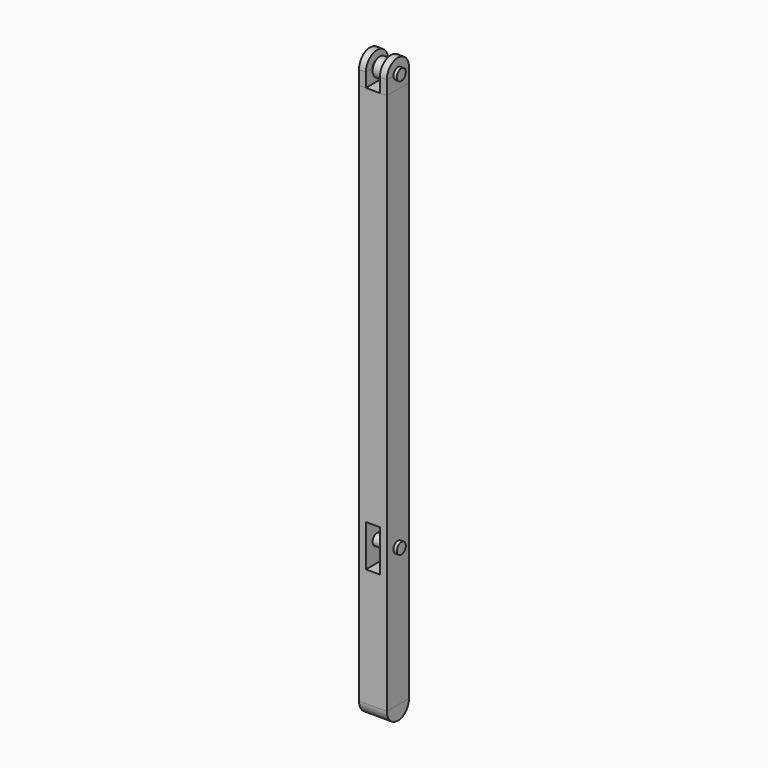
from build123d import *

# Parameters (mm, degrees)
CYLINDER001_W     = 0.1
CYLINDER001_H     = 0.2
CYLINDER001_ANGLE = 180
CYLINDER_R        = 0.04
CYLINDER_DEPTH    = 0.25
CYLINDER002_W     = 0.1
CYLINDER002_H     = 0.05
CYLINDER002_ANGLE = 180
BOX004_W          = 0.1
BOX004_H          = 0.15
BOX004_DEPTH      = 0.3
BOX005_W          = 0.2
BOX005_H          = 0.2
BOX005_DEPTH      = 3.9
BOX_W             = 0.05
BOX_H             = 0.2
BOX_DEPTH         = 0.1
BOX006_W          = 0.05
BOX006_H          = 0.2
BOX006_DEPTH      = 0.1
CYLINDER004_W     = 0.1
CYLINDER004_H     = 0.05
CYLINDER004_ANGLE = 180
CYLINDER005_R     = 0.04
CYLINDER005_DEPTH = 0.25
CYLINDER006_R     = 0.065
CYLINDER006_DEPTH = 0.06


with BuildPart() as cylinder001:
    # Cylinder001 → Cylinder001 (revolve)
    with BuildSketch(Plane(origin=(-0.1, 0, 0), x_dir=(0, -1, 0), z_dir=(0, 0, 1))):
        with Locations((0.05, 0.1)):
            Rectangle(CYLINDER001_W, CYLINDER001_H)
    revolve(axis=Axis((-0.1, 0, 0), (1, 0, 0)), revolution_arc=CYLINDER001_ANGLE)


with BuildPart() as cylinder:
    # Cylinder → Cylinder (new body)
    with BuildSketch(Plane(origin=(-0.125, 0, 1), x_dir=(0, 1, 0), z_dir=(1, 0, 0))):
        Circle(CYLINDER_R)
    extrude(amount=CYLINDER_DEPTH)


with BuildPart() as cylinder002:
    # Cylinder002 → Cylinder002 (revolve)
    with BuildSketch(Plane(origin=(0.05, 0, 4), x_dir=(0, 1, 0), z_dir=(0, 0, -1))):
        with Locations((0.05, 0.025)):
            Rectangle(CYLINDER002_W, CYLINDER002_H)
    revolve(axis=Axis((0.05, 0, 4), (1, 0, 0)), revolution_arc=CYLINDER002_ANGLE)


with BuildPart() as cube004:
    # Box004 → Box004 (new body)
    with BuildSketch(Plane(origin=(-0.05, -0.1, 0.85), x_dir=(1, 0, 0), z_dir=(0, 0, 1))):
        with Locations((0.05, 0.075)):
            Rectangle(BOX004_W, BOX004_H)
    extrude(amount=BOX004_DEPTH)


with BuildPart() as cut:
    # Box005 → Box005 (new body)
    with BuildSketch(Plane(origin=(-0.1, -0.1, 0), x_dir=(1, 0, 0), z_dir=(0, 0, 1))):
        with Locations((0.1, 0.1)):
            Rectangle(BOX005_W, BOX005_H)
    extrude(amount=BOX005_DEPTH)

    # Cut: cut Cube004
    add(cube004.part, mode=Mode.SUBTRACT)


with BuildPart() as cube:
    # Box → Box (new body)
    with BuildSketch(Plane(origin=(0.05, -0.1, 3.9), x_dir=(1, 0, 0), z_dir=(0, 0, 1))):
        with Locations((0.025, 0.1)):
            Rectangle(BOX_W, BOX_H)
    extrude(amount=BOX_DEPTH)


with BuildPart() as cube006:
    # Box006 → Box006 (new body)
    with BuildSketch(Plane(origin=(-0.1, -0.1, 3.9), x_dir=(1, 0, 0), z_dir=(0, 0, 1))):
        with Locations((0.025, 0.1)):
            Rectangle(BOX006_W, BOX006_H)
    extrude(amount=BOX006_DEPTH)


with BuildPart() as cylinder004:
    # Cylinder004 → Cylinder004 (revolve)
    with BuildSketch(Plane(origin=(-0.1, 0, 4), x_dir=(0, 1, 0), z_dir=(0, 0, -1))):
        with Locations((0.05, 0.025)):
            Rectangle(CYLINDER004_W, CYLINDER004_H)
    revolve(axis=Axis((-0.1, 0, 4), (1, 0, 0)), revolution_arc=CYLINDER004_ANGLE)


with BuildPart() as cylinder005:
    # Cylinder005 → Cylinder005 (new body)
    with BuildSketch(Plane(origin=(-0.125, 0, 4), x_dir=(0, 1, 0), z_dir=(1, 0, 0))):
        Circle(CYLINDER005_R)
    extrude(amount=CYLINDER005_DEPTH)


with BuildPart() as cylinder006:
    # Cylinder006 → Cylinder006 (new body)
    with BuildSketch(Plane(origin=(-0.03, 0, 4), x_dir=(0, 1, 0), z_dir=(1, 0, 0))):
        Circle(CYLINDER006_R)
    extrude(amount=CYLINDER006_DEPTH)


solid = Compound([cylinder001.part, cylinder.part, cylinder002.part, cut.part, cube.part, cube006.part, cylinder004.part, cylinder005.part, cylinder006.part])
